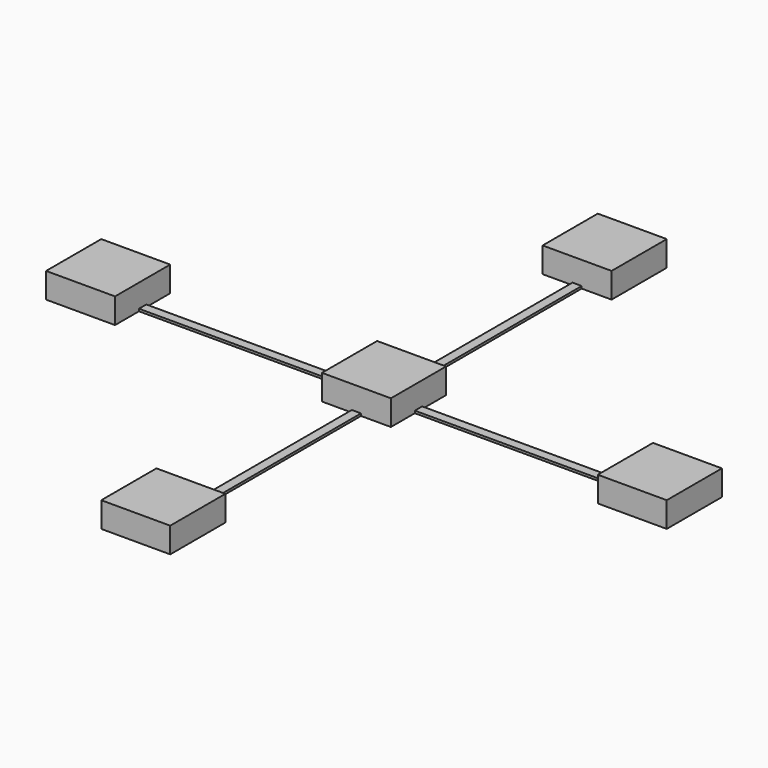
from build123d import *

# Parameters (mm, degrees)
F1_DEPTH = 0.5
F2_R     = 1
F3_DEPTH = 0.5
F4_W     = 15
F4_H     = 15
F5_DEPTH = 5


with BuildPart() as f1:
    # F0 (on Top) → F1 (new body)
    with BuildSketch(Plane.XY):
        Polygon((7.5, 67.5), (0, 67.5), (-7.5, 67.5), (-7.5, 52.5), (-1, 52.5), (-1, 7.5), (-7.5, 7.5), (-7.5, 1), (-52.5, 1), (-52.5, 7.5), (-67.5, 7.5), (-67.5, 0), (-67.5, -7.5), (-52.5, -7.5), (-52.5, -1), (-7.5, -1), (-7.5, -7.5), (-1, -7.5), (-1, -52.5), (-7.5, -52.5), (-7.5, -67.5), (0, -67.5), (7.5, -67.5), (7.5, -52.5), (1, -52.5), (1, -7.5), (7.5, -7.5), (7.5, -1), (52.5, -1), (52.5, -7.5), (67.5, -7.5), (67.5, 0), (67.5, 7.5), (52.5, 7.5), (52.5, 1), (7.5, 1), (7.5, 7.5), (1, 7.5), (1, 52.5), (7.5, 52.5), align=None)
    extrude(amount=F1_DEPTH)

    # F2 (on face) → F3 (cut, through all)
    with BuildSketch(Plane(origin=(0, 0, 0), x_dir=(1, 0, 0), z_dir=(0, 0, -1))):
        with Locations((0, -60)):
            Circle(F2_R)
    extrude(amount=-F3_DEPTH, mode=Mode.SUBTRACT)

    # F4 (on face) → F5 (join)
    with BuildSketch(Plane.XY.offset(0.5)):
        with Locations((-60, 0)):
            Rectangle(F4_W, F4_H)
        with Locations((0, 60)):
            Rectangle(F4_W, F4_H)
        with Locations((60, 0)):
            Rectangle(F4_W, F4_H)
        Rectangle(F4_W, F4_H)
        with Locations((0, -60)):
            Rectangle(F4_W, F4_H)
    extrude(amount=F5_DEPTH)


solid = f1.part
